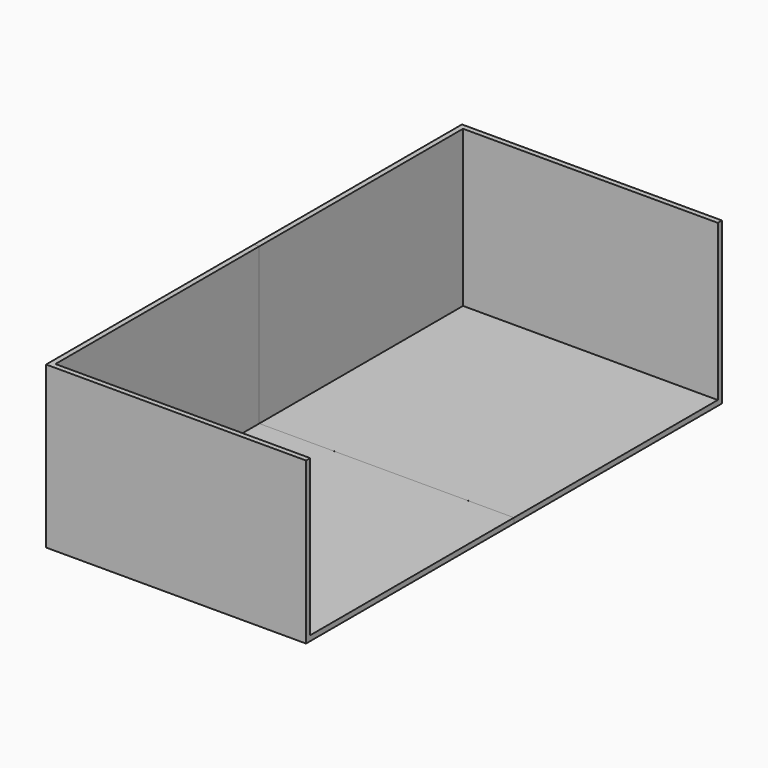
from build123d import *

# Parameters (mm, degrees)
F0_W     = 100
F0_H     = 200
F1_DEPTH = 62
F2_W     = 98
F2_H     = 196
F3_DEPTH = 60
F4_W     = 100
F4_H     = 0.001
F5_DEPTH = 62.001


with BuildPart() as f1:
    # F0 (on Top) → F1 (new body)
    with BuildSketch(Plane.XY):
        with Locations((-120, 0)):
            Rectangle(F0_W, F0_H)
    extrude(amount=F1_DEPTH)

    # F2 (on face) → F3 (cut)
    with BuildSketch(Plane.XY.offset(62)):
        with Locations((-119, 0)):
            Rectangle(F2_W, F2_H)
    extrude(amount=-F3_DEPTH, mode=Mode.SUBTRACT)

    # F4 (on face) → F5 (cut, through all)
    with BuildSketch(Plane(origin=(0, 0, 0), x_dir=(1, 0, 0), z_dir=(0, 0, -1))):
        with Locations((-120, -0.0005)):
            Rectangle(F4_W, F4_H)
    extrude(amount=-F5_DEPTH, mode=Mode.SUBTRACT)


solid = f1.part
